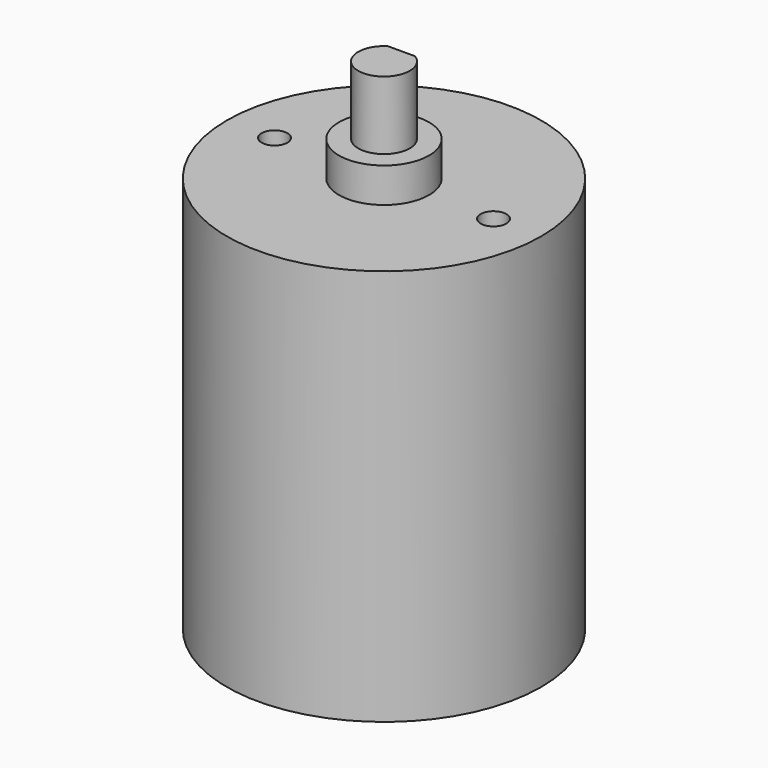
from build123d import *

# Parameters (mm, degrees)
SKETCH012_R     = 12.2
PAD010_DEPTH    = 30.8
PAD011_DEPTH    = 8
SKETCH014_R     = 1
POCKET002_DEPTH = 5
SKETCH015_R     = 3.5
SKETCH015_R_2   = 2
PAD012_DEPTH    = 2.7


with BuildPart() as part:
    # Sketch012 → Pad010 (new body)
    with BuildSketch(Plane.XY):
        Circle(SKETCH012_R)
    extrude(amount=-PAD010_DEPTH)

    # Sketch013 → Pad011 (join)
    with BuildSketch(Plane.XY):
        with BuildLine():
            Line((-1.0535656252, 1.6999998451), (1.0535656252, 1.6999998451))
            ThreePointArc((0, -2), (1.9235383659, -0.5477226989), (1.0535656252, 1.6999998451))
            ThreePointArc((-1.0535656252, 1.6999998451), (-1.9235383659, -0.5477226989), (0, -2))
        make_face()
    extrude(amount=PAD011_DEPTH)

    # Sketch014 (on Face2 of Pad011) → Pocket002 (cut)
    with BuildSketch(Plane.XY):
        with Locations((-8.5, 0)):
            Circle(SKETCH014_R)
        with Locations((8.5, 0)):
            Circle(SKETCH014_R)
    extrude(amount=-POCKET002_DEPTH, mode=Mode.SUBTRACT)

    # Sketch015 (on Face2 of Pocket002) → Pad012 (join)
    with BuildSketch(Plane.XY):
        Circle(SKETCH015_R)
        Circle(SKETCH015_R_2, mode=Mode.SUBTRACT)
    extrude(amount=PAD012_DEPTH)


with BuildPart() as part_1:
    # Body003 placement: moved
    add(part.part.moved(Location((0, 0, -31))))


solid = part_1.part
